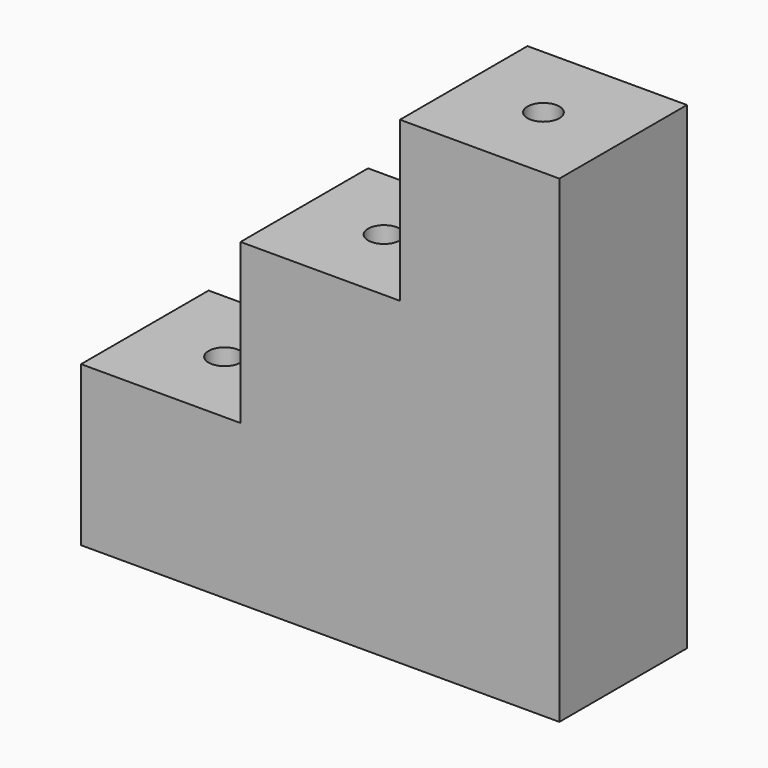
from build123d import *

# Parameters (mm, degrees)
F1_DEPTH = 300
F3_D     = 60
F6_D     = 60
F7_D     = 60


with BuildPart() as f1:
    # F0 (on Front) → F1 (new body)
    with BuildSketch(Plane.XZ):
        Polygon((0, 300), (0, 0), (900, 0), (900, 900), (600, 900), (600, 600), (300, 600), (300, 300), align=None)
    extrude(amount=F1_DEPTH)

    # F3 (through all)
    with Locations(Plane.XY.offset(900)):
        with Locations((750, -150)):
            Hole(F3_D / 2)

    # F6 (through all)
    with Locations(Plane.XY.offset(300)):
        with Locations((150, -150)):
            Hole(F6_D / 2)

    # F7 (through all)
    with Locations(Plane.XY.offset(600)):
        with Locations((450, -150)):
            Hole(F7_D / 2)


solid = f1.part
